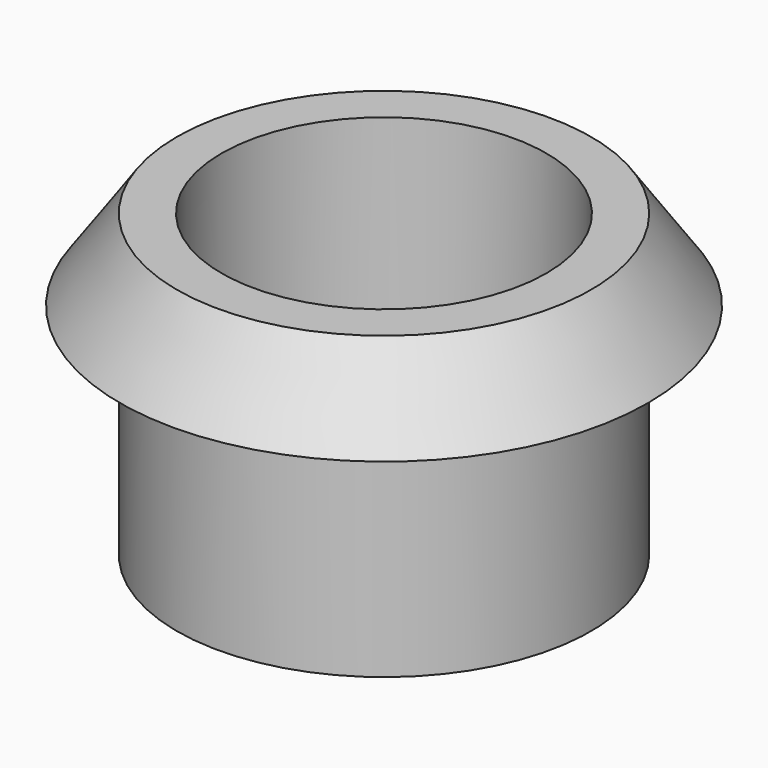
from build123d import *

# Parameters (mm, degrees)
F0_W   = 5.5
F0_H   = 10
F0_H_2 = 27


with BuildPart() as f1:
    # F0 (on Front) → F1 (revolve)
    with BuildSketch(Plane.XZ):
        Polygon((-32.5, 13.5), (-25.5, 13.5), (-25.5, 23.5), align=None)
        with Locations((-22.75, 18.5)):
            Rectangle(F0_W, F0_H)
        with Locations((-22.75, 0)):
            Rectangle(F0_W, F0_H_2)
    revolve(axis=Axis((0, 0, 5), (0, 0, -1)))


solid = f1.part
